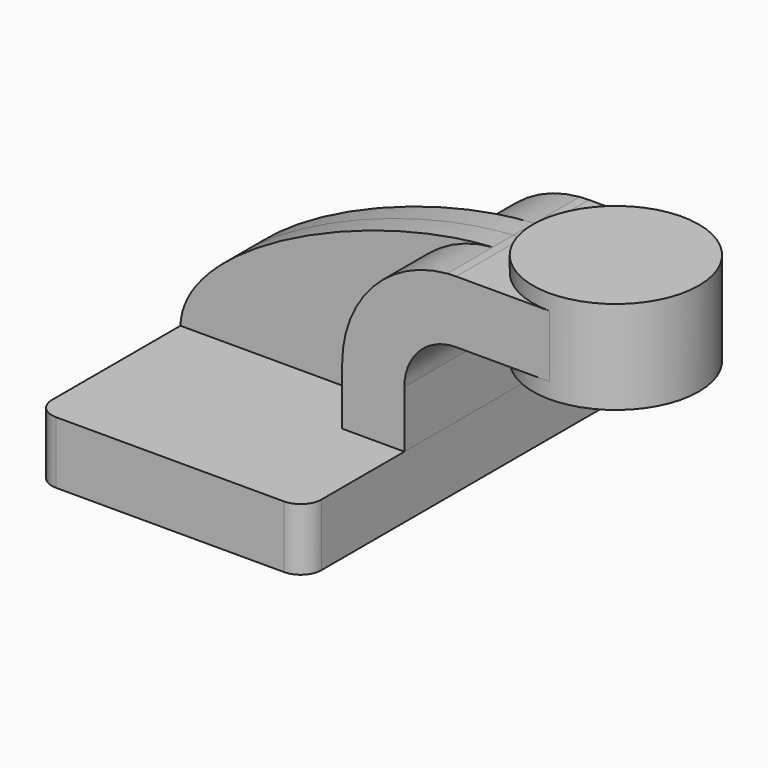
from build123d import *

# Parameters (mm, degrees)
F1_DEPTH = 63.5
F0_W     = 25.4
F0_H     = 19.05
F2_DEPTH = 25.4
F3_DEPTH = 7.9375
F5_R     = 6.35


with BuildPart() as f1:
    # F0 (on Front) → F1 (new body, symmetric)
    with BuildSketch(Plane.XZ):
        Polygon((-41.275, -9.525), (41.275, -9.525), (41.275, 9.525), (22.225, 9.525), (-41.275, 9.525), align=None)
    extrude(amount=F1_DEPTH, both=True)

    # F5
    f5_edges = [f1.edges().sort_by_distance(p)[0] for p in [
        (41.275, -63.5, 0),
        (-41.275, -63.5, 0),
        (-41.275, 63.5, 0),
        (41.275, 63.5, 0),
    ]]
    fillet(f5_edges, radius=F5_R)


with BuildPart() as f2:
    # F0 (on Front) → F2 (new body, symmetric)
    with BuildSketch(Plane.XZ):
        with BuildLine():
            Line((22.225, 9.525), (41.275, 9.525))
            Line((41.275, 9.525), (41.275, 26.9875))
            ThreePointArc((41.275, 26.9875), (45.9246798487, 38.2128201513), (57.15, 42.8625))
            Line((57.15, 42.8625), (60.325, 42.8625))
            Line((60.325, 42.8625), (60.325, 61.9125))
            Line((60.325, 61.9125), (57.15, 61.9125))
            add(Edge.make_bspline(
                [(54.360118939, 61.8008909389), (55.3014145597, 61.8526008598), (56.2317398857, 61.8899307425), (57.15, 61.9125)],
                knots=[108.8305013681, 108.8305013681, 108.8305013681, 108.8305013681, 111.4985685166, 111.4985685166, 111.4985685166, 111.4985685166], degree=3))
            ThreePointArc((54.360118939, 61.8008909389), (31.4868725498, 50.6763056785), (22.225, 26.9875))
            Line((22.225, 26.9875), (22.225, 9.525))
        make_face()
        with Locations((73.025, 52.3875)):
            Rectangle(F0_W, F0_H)
    extrude(amount=F2_DEPTH, both=True)

    # F0 (on Front) → F4 (revolve)
    with BuildSketch(Plane.XZ):
        Polygon((85.725, 61.9125), (85.725, 42.8625), (85.725, 38.1), (111.125, 38.1), (111.125, 66.675), (85.725, 66.675), align=None)
    revolve(axis=Axis((85.725, 0, 52.3875), (0, 0, 1)))


with BuildPart() as f3:
    # F0 (on Front) → F3 (new body, symmetric)
    with BuildSketch(Plane.XZ):
        with BuildLine():
            add(Edge.make_bspline(
                [(-41.275, 9.525), (-40.6834626734, 33.6565211849), (15.9646556195, 59.6916424443), (54.360118939, 61.8008909389)],
                knots=[0, 0, 0, 0, 108.8305013681, 108.8305013681, 108.8305013681, 108.8305013681], degree=3))
            Line((-41.275, 9.525), (22.225, 9.525))
            Line((22.225, 9.525), (22.225, 26.9875))
            ThreePointArc((22.225, 26.9875), (31.4868725498, 50.6763056785), (54.360118939, 61.8008909389))
        make_face()
    extrude(amount=F3_DEPTH, both=True)


solid = Compound([f1.part, f2.part, f3.part])
